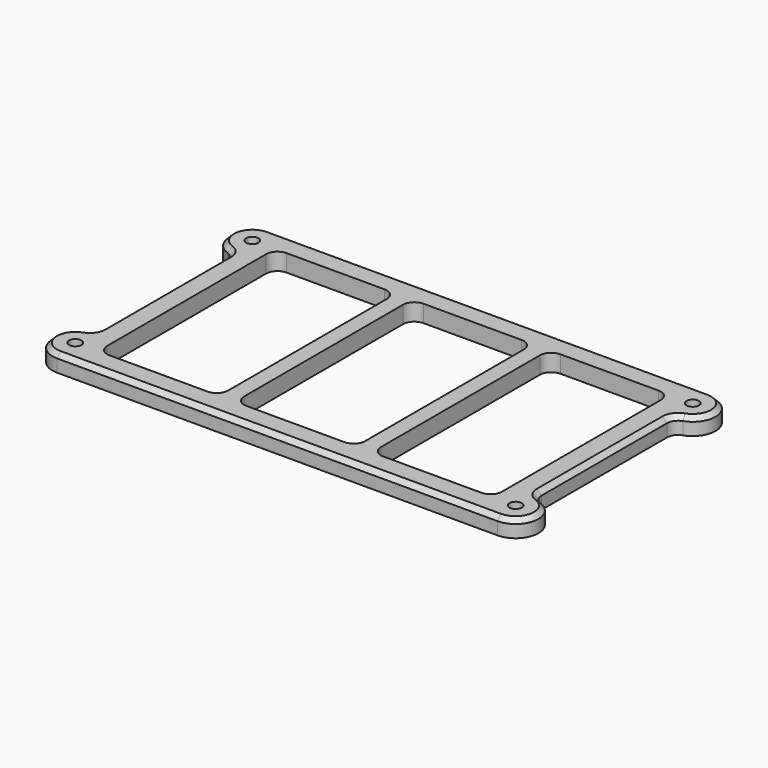
from build123d import *

# Parameters (mm, degrees)
F0_R     = 3.429
F1_DEPTH = 9.525
F2_SIZE  = 2.54


with BuildPart() as f1:
    # F0 (on Top) → F1 (new body)
    with BuildSketch(Plane.XY):
        with BuildLine():
            Line((-117.757219, 148.59), (-240.312219, 148.59))
            ThreePointArc((-240.312219, 148.59), (-252.82932, 138.037595), (-244.545552, 123.916325))
            ThreePointArc((-244.545552, 123.916325), (-241.477465, 121.595662), (-240.312219, 117.929488))
            Line((-240.312219, 117.929488), (-240.312219, 30.660512))
            ThreePointArc((-240.312219, 30.660512), (-241.477465, 26.994338), (-244.545552, 24.673675))
            ThreePointArc((-244.545552, 24.673675), (-252.82932, 10.552405), (-240.312219, 0))
            Line((-240.312219, 0), (-117.757219, 0))
            Line((-117.757219, 0), (-117.757219, 12.7))
            Line((-117.757219, 12.7), (-145.062219, 12.7))
            ThreePointArc((-145.062219, 12.7), (-149.552347, 14.559872), (-151.412219, 19.05))
            Line((-151.412219, 19.05), (-151.412219, 129.54))
            ThreePointArc((-151.412219, 129.54), (-149.552347, 134.030128), (-145.062219, 135.89))
            Line((-145.062219, 135.89), (-117.757219, 135.89))
            Line((-117.757219, 135.89), (-117.757219, 148.59))
        make_face()
        with Locations((-240.312219, 12.7)):
            Circle(F0_R, mode=Mode.SUBTRACT)
        with BuildLine():
            ThreePointArc((-227.612219, 129.54), (-225.752347, 134.030128), (-221.262219, 135.89))
            Line((-221.262219, 135.89), (-166.652219, 135.89))
            ThreePointArc((-166.652219, 135.89), (-162.162091, 134.030128), (-160.302219, 129.54))
            Line((-160.302219, 129.54), (-160.302219, 19.05))
            ThreePointArc((-160.302219, 19.05), (-162.162091, 14.559872), (-166.652219, 12.7))
            Line((-166.652219, 12.7), (-221.262219, 12.7))
            ThreePointArc((-221.262219, 12.7), (-225.752347, 14.559872), (-227.612219, 19.05))
            Line((-227.612219, 19.05), (-227.612219, 129.54))
        make_face(mode=Mode.SUBTRACT)
        with Locations((-240.312219, 135.89)):
            Circle(F0_R, mode=Mode.SUBTRACT)
        with BuildLine():
            Line((4.797781, 148.59), (-117.757219, 148.59))
            Line((-117.757219, 148.59), (-117.757219, 135.89))
            Line((-117.757219, 135.89), (-90.452219, 135.89))
            ThreePointArc((-90.452219, 135.89), (-85.962091, 134.030128), (-84.102219, 129.54))
            Line((-84.102219, 129.54), (-84.102219, 19.05))
            ThreePointArc((-84.102219, 19.05), (-85.962091, 14.559872), (-90.452219, 12.7))
            Line((-90.452219, 12.7), (-117.757219, 12.7))
            Line((-117.757219, 12.7), (-117.757219, 0))
            Line((-117.757219, 0), (4.797781, 0))
            ThreePointArc((4.797781, 0), (17.314883, 10.552405), (9.031115, 24.673675))
            ThreePointArc((9.031115, 24.673675), (5.963028, 26.994338), (4.797781, 30.660512))
            Line((4.797781, 30.660512), (4.797781, 117.929488))
            ThreePointArc((4.797781, 117.929488), (5.963028, 121.595662), (9.031115, 123.916325))
            ThreePointArc((9.031115, 123.916325), (17.314883, 138.037595), (4.797781, 148.59))
        make_face()
        with Locations((4.797781, 12.7)):
            Circle(F0_R, mode=Mode.SUBTRACT)
        with BuildLine():
            Line((-7.902219, 129.54), (-7.902219, 19.05))
            ThreePointArc((-7.902219, 19.05), (-9.762091, 14.559872), (-14.252219, 12.7))
            Line((-14.252219, 12.7), (-68.862219, 12.7))
            ThreePointArc((-68.862219, 12.7), (-73.352347, 14.559872), (-75.212219, 19.05))
            Line((-75.212219, 19.05), (-75.212219, 129.54))
            ThreePointArc((-75.212219, 129.54), (-73.352347, 134.030128), (-68.862219, 135.89))
            Line((-68.862219, 135.89), (-14.252219, 135.89))
            ThreePointArc((-14.252219, 135.89), (-9.762091, 134.030128), (-7.902219, 129.54))
        make_face(mode=Mode.SUBTRACT)
        with Locations((4.797781, 135.89)):
            Circle(F0_R, mode=Mode.SUBTRACT)
    extrude(amount=F1_DEPTH)

    # F2
    f2_edges = [f1.edges().sort_by_distance(p)[0] for p in [
        (-117.757219, 0, 9.525),
    ]]
    chamfer(f2_edges, length=F2_SIZE)


solid = f1.part
